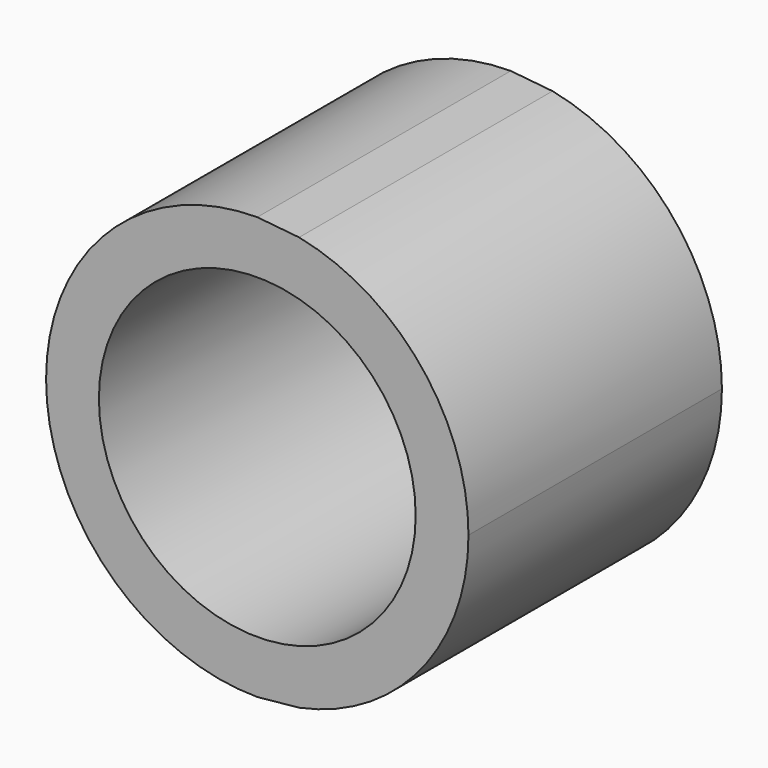
from build123d import *

# Parameters (mm, degrees)
F0_R     = 19.05
F1_DEPTH = 38.1


with BuildPart() as f1:
    # F0 (on Front) → F1 (new body)
    with BuildSketch(Plane.XZ):
        with BuildLine():
            Line((-83.870297, 24.89703), (-88.9, 25.4))
            ThreePointArc((-88.9, 25.4), (-114.3, 0), (-88.9, -25.4))
            Line((-88.9, -25.4), (-83.870297, -24.89703))
            ThreePointArc((-83.870297, -24.89703), (-69.241485, -16.08424), (-63.5, 0))
            ThreePointArc((-63.5, 0), (-69.241485, 16.08424), (-83.870297, 24.89703))
        make_face()
        with Locations((-88.9, 0)):
            Circle(F0_R, mode=Mode.SUBTRACT)
    extrude(amount=F1_DEPTH)


solid = f1.part
